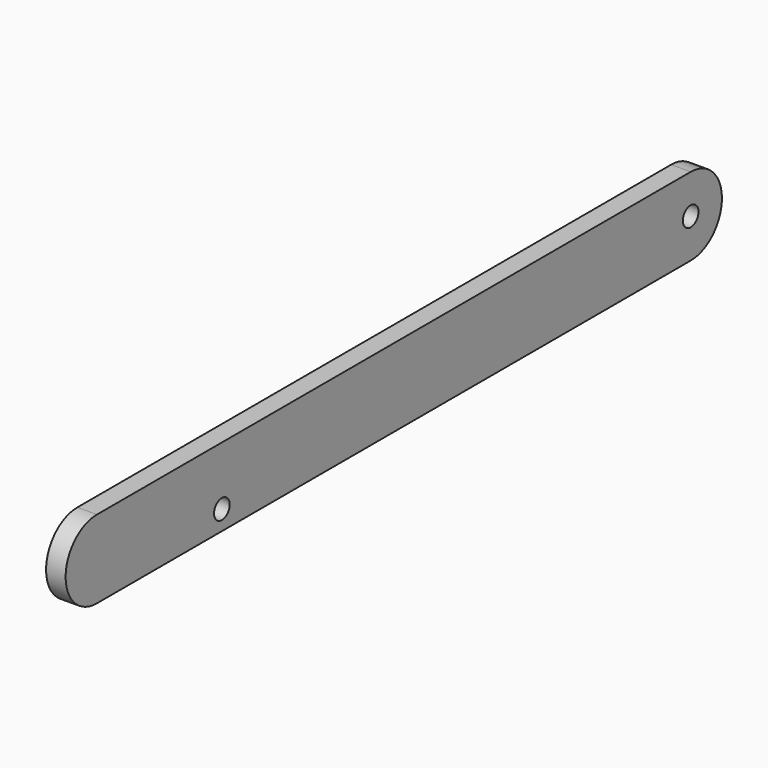
from build123d import *

# Parameters (mm, degrees)
F3_DEPTH = 1.5875
F1_R     = 1.5875
F2_R     = 1.5875
F4_DEPTH = 12.7


with BuildPart() as f3:
    # F0 (on Right) → F3 (new body, symmetric)
    with BuildSketch(Plane.YZ):
        with BuildLine():
            Line((78.718615, 43.721738), (-41.931385, 43.721738))
            ThreePointArc((-41.931385, 43.721738), (-48.281385, 37.371738), (-41.931385, 31.021738))
            Line((-41.931385, 31.021738), (78.718615, 31.021738))
            ThreePointArc((78.718615, 31.021738), (85.068615, 37.371738), (78.718615, 43.721738))
        make_face()
    extrude(amount=F3_DEPTH, both=True)

    # F1 (on Right) + F2 (on Right) → F4 (cut, symmetric)
    with BuildSketch(Plane.YZ):
        with Locations((-16.531385, 34.196738)):
            Circle(F1_R)
    with BuildSketch(Plane.YZ):
        with Locations((78.718615, 37.371738)):
            Circle(F2_R)
    extrude(amount=F4_DEPTH, both=True, mode=Mode.SUBTRACT)


solid = f3.part
